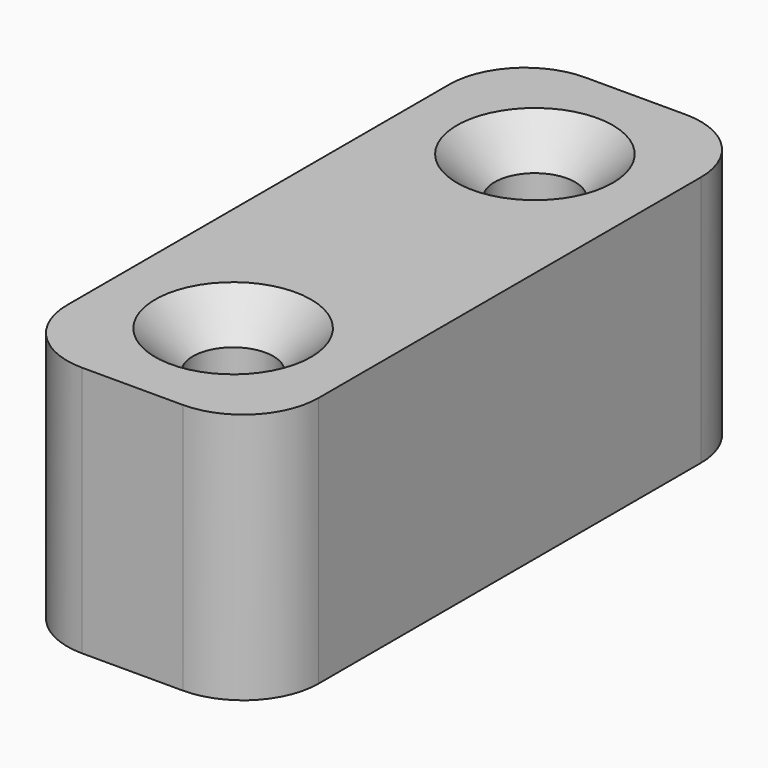
from build123d import *

# Parameters (mm, degrees)
F0_W     = 10
F0_H     = 25
F0_R     = 1.6
F1_DEPTH = 10
F2_R     = 3
F3_SIZE  = 1.5


with BuildPart() as f1:
    # F0 (on Top) → F1 (new body)
    with BuildSketch(Plane.XY):
        Rectangle(F0_W, F0_H)
        with Locations((0, -7.5)):
            Circle(F0_R, mode=Mode.SUBTRACT)
        with Locations((0, 7.5)):
            Circle(F0_R, mode=Mode.SUBTRACT)
    extrude(amount=F1_DEPTH)

    # F2
    f2_edges = [f1.edges().sort_by_distance(p)[0] for p in [
        (-5, 12.5, 5),
        (-5, -12.5, 5),
        (5, -12.5, 5),
        (5, 12.5, 5),
    ]]
    fillet(f2_edges, radius=F2_R)

    # F3
    f3_edges = [f1.edges().sort_by_distance(p)[0] for p in [
        (-1.6, 7.5, 10),
        (-1.6, -7.5, 10),
    ]]
    chamfer(f3_edges, length=F3_SIZE)


solid = f1.part
